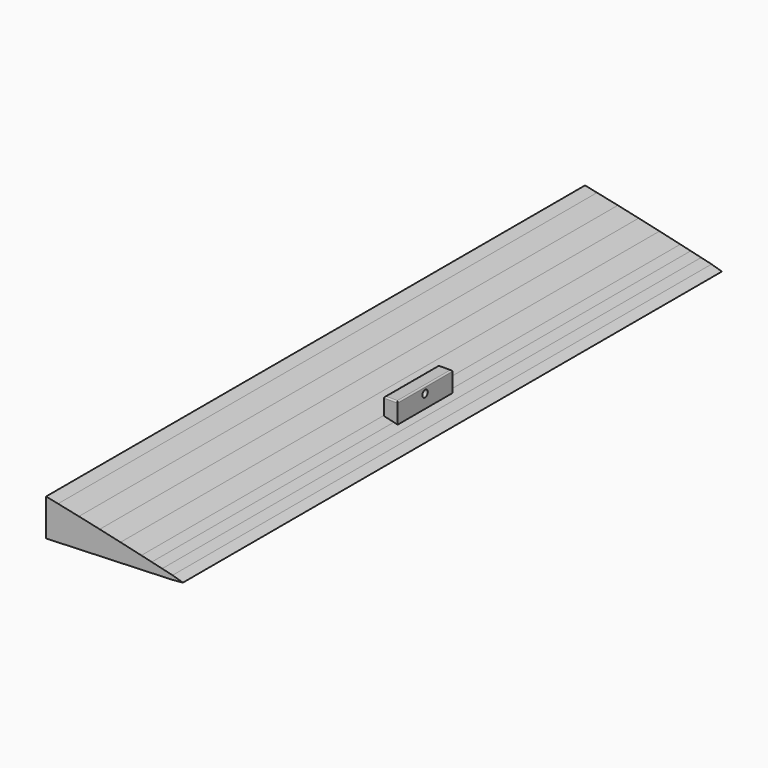
from build123d import *

# Parameters (mm, degrees)
SKETCH020_R  = 1.5
PAD005_DEPTH = 5
SKETCH021_R  = 1.5
PAD007_DEPTH = 5
SKETCH018_R  = 1.5
PAD004_DEPTH = 5
SKETCH017_R  = 1.5
PAD008_DEPTH = 5
SKETCH025_W  = 25
SKETCH025_H  = 10
SKETCH025_R  = 1.25
PAD014_DEPTH = 5
FILLET_R     = 0.5


with BuildPart() as body012:
    # Sketch020 → Pad005 (new body)
    with BuildSketch(Plane(origin=(0.02, 0, 0), x_dir=(1, 0, 0), z_dir=(0, -1, 0))):
        Polygon((0.683099, -4), (2.5, -4), (2.5, 4), (0.683099, 4), (-2.5, 0.816901), (-2.5, -0.816901), align=None)
        Circle(SKETCH020_R, mode=Mode.SUBTRACT)
    extrude(amount=PAD005_DEPTH)


with BuildPart() as body012_1:
    # Body012 placement: moved
    add(body012.part.moved(Location((337.5, 453, 4.5))))


with BuildPart() as body013:
    # Sketch021 → Pad007 (new body)
    with BuildSketch(Plane(origin=(0.02, 0, 0), x_dir=(1, 0, 0), z_dir=(0, -1, 0))):
        Polygon((0.683099, -4), (2.5, -4), (2.5, 4), (0.683099, 4), (-2.5, 0.816901), (-2.5, -0.816901), align=None)
        Circle(SKETCH021_R, mode=Mode.SUBTRACT)
    extrude(amount=PAD007_DEPTH)


with BuildPart() as body013_1:
    # Body013 placement: moved
    add(body013.part.moved(Location((337.5, 443, 4.5))))


with BuildPart() as body010:
    # Sketch018 → Pad004 (new body)
    with BuildSketch(Plane(origin=(0.02, 0, 0), x_dir=(1, 0, 0), z_dir=(0, -1, 0))):
        Polygon((0.683099, -4), (2.5, -4), (2.5, 4), (0.683099, 4), (-2.5, 0.816901), (-2.5, -0.816901), align=None)
        Circle(SKETCH018_R, mode=Mode.SUBTRACT)
    extrude(amount=PAD004_DEPTH)


with BuildPart() as body010_1:
    # Body010 placement: moved
    add(body010.part.moved(Location((337.5, 297, 4.5))))


with BuildPart() as body009:
    # Sketch017 → Pad008 (new body)
    with BuildSketch(Plane(origin=(0.02, 0, 0), x_dir=(1, 0, 0), z_dir=(0, -1, 0))):
        Polygon((0.683099, -4), (2.5, -4), (2.5, 4), (0.683099, 4), (-2.5, 0.816901), (-2.5, -0.816901), align=None)
        Circle(SKETCH017_R, mode=Mode.SUBTRACT)
    extrude(amount=PAD008_DEPTH)


with BuildPart() as body009_1:
    # Body009 placement: moved
    add(body009.part.moved(Location((337.5, 307, 4.5))))


with BuildPart() as hinge_aileron:
    # Sketch025 → Pad014 (new body)
    with BuildSketch(Plane.YZ):
        Rectangle(SKETCH025_W, SKETCH025_H)
        with Locations((0, 2.498994)):
            Circle(SKETCH025_R, mode=Mode.SUBTRACT)
    extrude(amount=PAD014_DEPTH)

    # Fillet
    fillet_edges = [hinge_aileron.edges().sort_by_distance(p)[0] for p in [
        (2.5, 12.5, 5),
        (2.5, -12.5, 5),
        (0, 0, 5),
        (5, 0, 5),
    ]]
    fillet(fillet_edges, radius=FILLET_R)


with BuildPart() as hinge_aileron_1:
    # Body017 placement: moved
    add(hinge_aileron.part.moved(Location((375, 375, 5))))


with BuildPart() as aileron:
    # Sketch012 → AdditiveLoft001 section 0
    with BuildSketch(Plane(origin=(10, 498, 0), x_dir=(1, 0, 0), z_dir=(0, -1, 0))):
        Polygon((334.392927, 10.526054), (342, 8.93095), (349.6, 7.263928), (357.2, 5.557082), (364.8, 3.808816), (368.6, 2.920984), (372.4, 2.02673), (376.2, 1.12822), (380, 0), (376.2, -0.367308), (372.4, -0.506882), (368.6, -0.646418), (364.8, -0.785954), (357.2, -1.065064), (349.6, -1.344174), (342, -1.623284), (334.4, -1.902394), (330.0157, -2.063407), (330.0157, 11.43475), align=None)
    # Sketch014 → AdditiveLoft001 section 1
    with BuildSketch(Plane(origin=(10, 252, 0), x_dir=(1, 0, 0), z_dir=(0, -1, 0))):
        Polygon((334.392927, 10.526054), (342, 8.93095), (349.6, 7.263928), (357.2, 5.557082), (364.8, 3.808816), (368.6, 2.920984), (372.4, 2.02673), (376.2, 1.12822), (380, 0), (376.2, -0.367308), (372.4, -0.506882), (368.6, -0.646418), (364.8, -0.785954), (357.2, -1.065064), (349.6, -1.344174), (342, -1.623284), (334.4, -1.902394), (330.0157, -2.063407), (330.0157, 11.43475), align=None)
    loft()

    # Boolean002: union Body012, Body013, Body010, Body009
    add(body012_1.part)
    add(body013_1.part)
    add(body010_1.part)
    add(body009_1.part)

    # Boolean004: union hinge_aileron
    add(hinge_aileron_1.part)


solid = aileron.part
